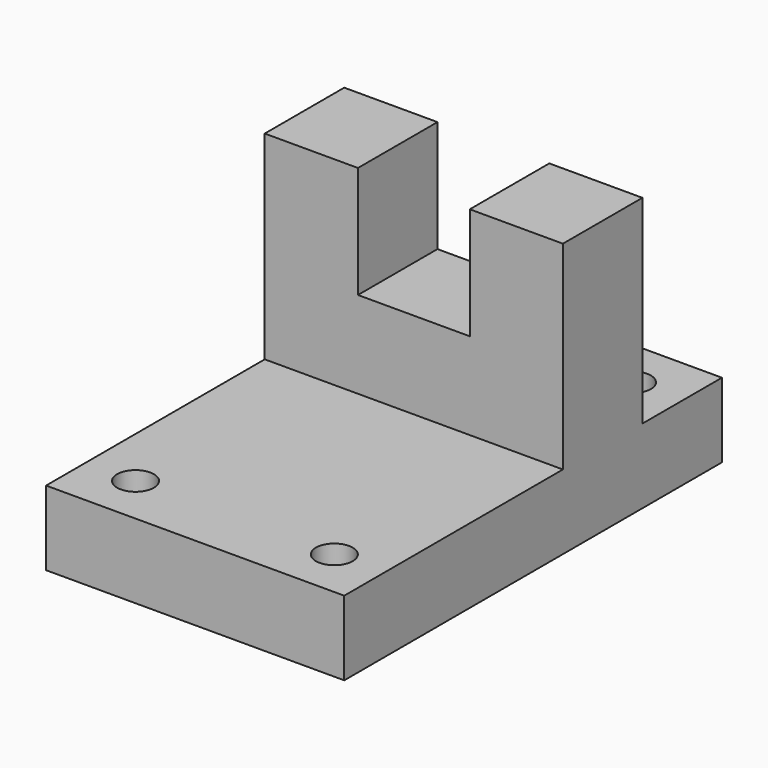
from build123d import *

# Parameters (mm, degrees)
F1_DEPTH = 25.4
F2_R     = 4.699
F3_DEPTH = 19.05


with BuildPart() as f1:
    # F0 (on Front) → F1 (new body)
    with BuildSketch(Plane.XZ):
        Polygon((-38.1, -34.925), (38.1, -34.925), (38.1, 34.925), (14.3002, 34.925), (14.3002, 6.35), (-14.2748, 6.35), (-14.2748, 34.925), (-38.1, 34.925), align=None)
    extrude(amount=F1_DEPTH)

    # F2 (on face) → F3 (join)
    with BuildSketch(Plane(origin=(0, 0, -34.925), x_dir=(1, 0, 0), z_dir=(0, 0, -1))):
        Polygon((-38.1, 25.4), (38.1, 25.4), (38.1, 82.55), (38.1, 95.25), (25.4, 95.25), (-25.4, 95.25), (-38.1, 95.25), (-38.1, 82.55), align=None)
        with Locations((-25.4, 82.55)):
            Circle(F2_R, mode=Mode.SUBTRACT)
        with Locations((25.4, 82.55)):
            Circle(F2_R, mode=Mode.SUBTRACT)
        Polygon((38.1, -12.7), (38.1, 0), (-38.1, 0), (-38.1, -25.4), (25.4, -25.4), (38.1, -25.4), align=None)
        with Locations((-25.4, -12.7)):
            Circle(F2_R, mode=Mode.SUBTRACT)
        with Locations((25.4, -12.7)):
            Circle(F2_R, mode=Mode.SUBTRACT)
    extrude(amount=-F3_DEPTH)


solid = f1.part
